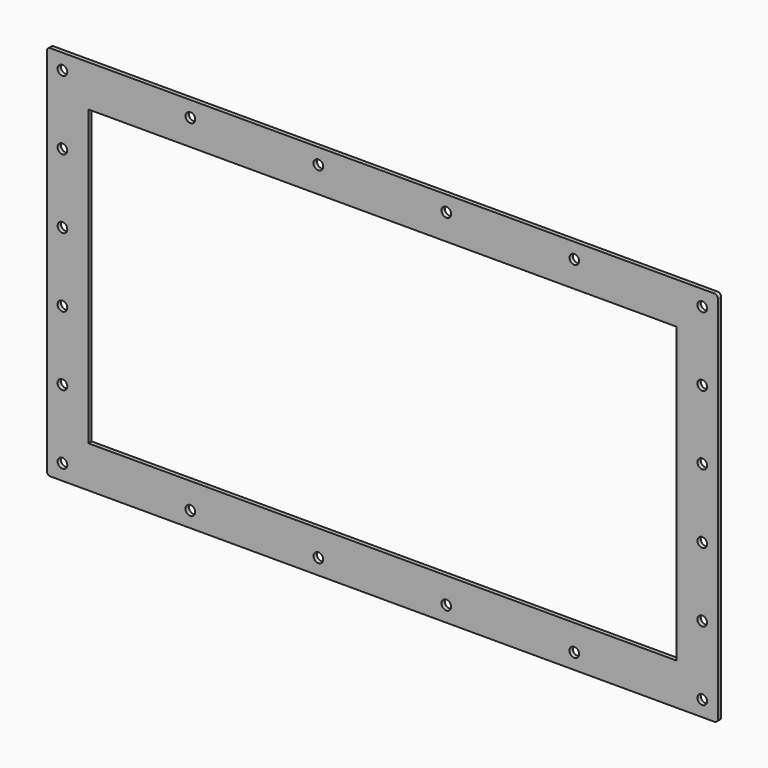
from build123d import *

# Parameters (mm, degrees)
F0_W     = 970
F0_H     = 545
F0_W_2   = 850
F0_H_2   = 425
F1_DEPTH = 6
F2_R     = 5
F4_D     = 14


with BuildPart() as f1:
    # F0 (on Front) → F1 (new body)
    with BuildSketch(Plane.XZ):
        Rectangle(F0_W, F0_H)
        Rectangle(F0_W_2, F0_H_2, mode=Mode.SUBTRACT)
    extrude(amount=F1_DEPTH)

    # F2
    f2_edges = [f1.edges().sort_by_distance(p)[0] for p in [
        (-485, -3, 272.5),
        (485, -3, 272.5),
        (485, -3, -272.5),
        (-485, -3, -272.5),
    ]]
    fillet(f2_edges, radius=F2_R)

    # F4 (through all)
    with Locations(Plane(origin=(0, 0, 0), x_dir=(1, 0, 0), z_dir=(0, 1, 0))):
        with Locations((462.5, -250), (277.5, -250), (92.5, -250), (-92.5, -250), (-462.5, -250), (-462.5, -150), (-462.5, -50), (-462.5, 50), (-462.5, 150), (-462.5, 250), (-277.5, 250), (-92.5, 250), (92.5, 250), (277.5, 250), (462.5, 250), (462.5, 150), (462.5, 50), (462.5, -50), (462.5, -150), (-277.5, -250)):
            Hole(F4_D / 2)


solid = f1.part
